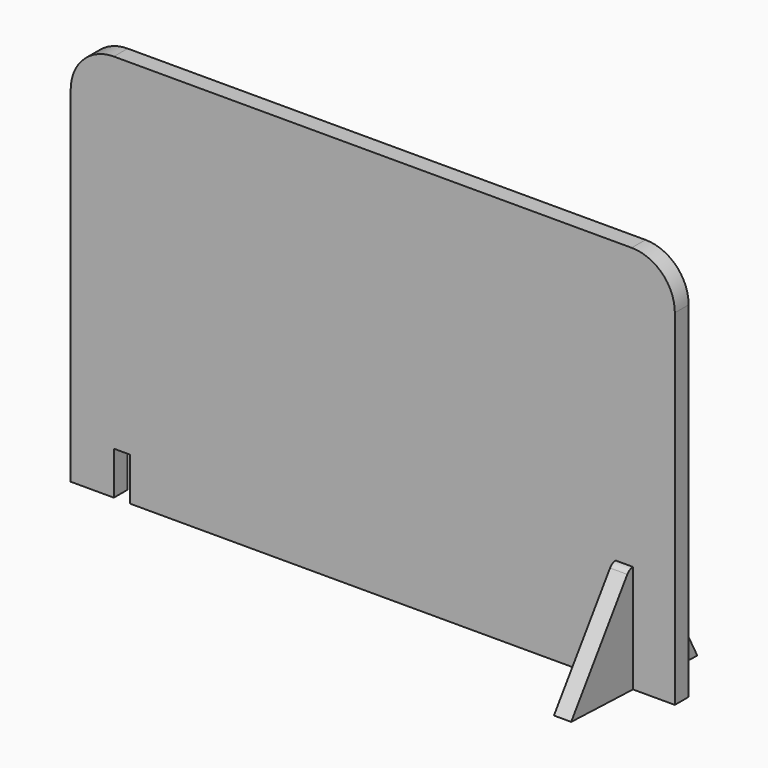
from build123d import *

# Parameters (mm, degrees)
F1_DEPTH = 4
F3_DEPTH = 4


with BuildPart() as f1:
    # F0 (on Front) → F1 (new body)
    with BuildSketch(Plane.XZ):
        with BuildLine():
            Line((60, 90), (-60, 90))
            ThreePointArc((-60, 90), (-67.0710678119, 87.0710678119), (-70, 80))
            Line((-70, 80), (-70, 0))
            Line((-70, 0), (-60, 0))
            Line((-60, 0), (-60, 10))
            Line((-60, 10), (-56.3, 10))
            Line((-56.3, 10), (-56.3, 0))
            Line((-56.3, 0), (56.3, 0))
            Line((56.3, 0), (56.3, 10))
            Line((56.3, 10), (60, 10))
            Line((60, 10), (60, 0))
            Line((60, 0), (70, 0))
            Line((70, 0), (70, 80))
            ThreePointArc((70, 80), (67.0710678119, 87.0710678119), (60, 90))
        make_face()
    extrude(amount=F1_DEPTH)

    # F2 (on face) → F3 (join)
    with BuildSketch(Plane.YZ.offset(56.3)):
        with BuildLine():
            Line((0, 25), (0, 10))
            Line((0, 10), (-4, 10))
            Line((-4, 10), (-4, 25))
            ThreePointArc((-4, 25), (-4.9283988219, 24.7714614383), (-5.6446227124, 24.1380756275))
            Line((-5.6446227124, 24.1380756275), (-21.8974136828, 0.6513155869))
            Line((-21.8974136828, 0.6513155869), (14.6343906331, -0.67813536))
            Line((14.6343906331, -0.67813536), (1.7724384249, 23.9265322606))
            ThreePointArc((1.7724384249, 23.9265322606), (1.0360828825, 24.7107110395), (0, 25))
        make_face()
    extrude(amount=F3_DEPTH)


solid = f1.part
